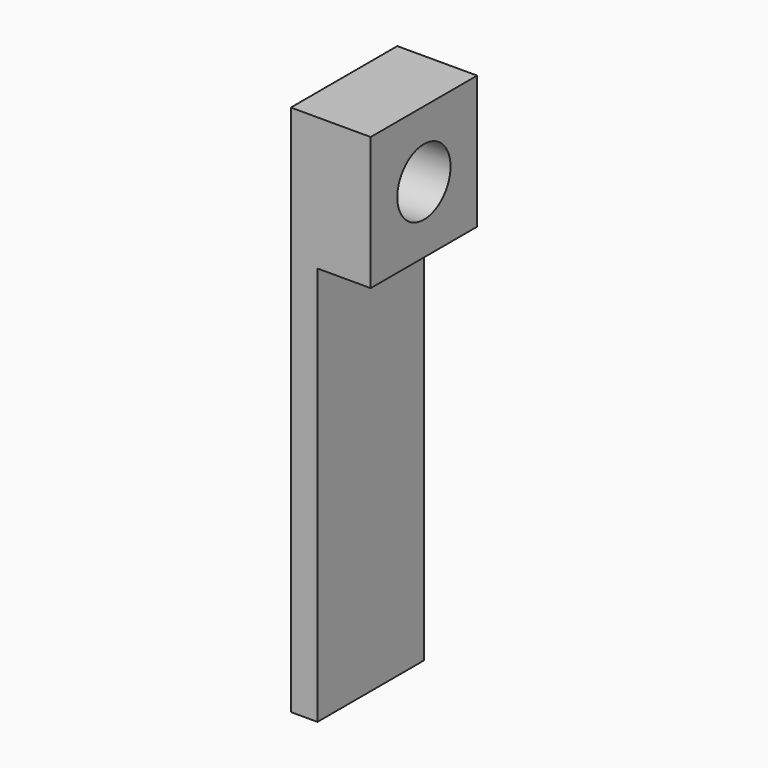
from build123d import *

# Parameters (mm, degrees)
F1_DEPTH = 50
F2_R     = 12.5
F3_DEPTH = 56


with BuildPart() as f1:
    # F0 (on Front) → F1 (new body)
    with BuildSketch(Plane.XZ):
        Polygon((0, 200), (0, 0), (10, 0), (10, 150), (30, 150), (30, 200), align=None)
    extrude(amount=F1_DEPTH)

    # F2 (on face) → F3 (cut)
    with BuildSketch(Plane.YZ.offset(30)):
        with Locations((-25, 175)):
            Circle(F2_R)
    extrude(amount=-F3_DEPTH, mode=Mode.SUBTRACT)


solid = f1.part
